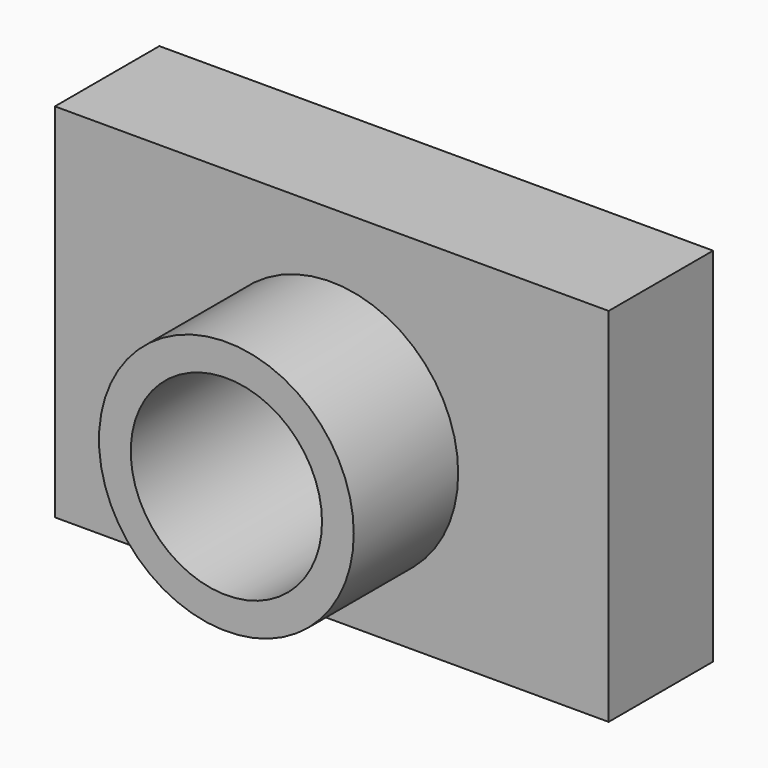
from build123d import *

# Parameters (mm, degrees)
F0_W     = 107.738086
F0_H     = 70.393864
F1_DEPTH = 25.4
F2_R     = 24.783806
F3_DEPTH = 25.4
F4_R     = 18.605806
F5_DEPTH = 76.2


with BuildPart() as f1:
    # F0 (on Front) → F1 (new body)
    with BuildSketch(Plane.XZ):
        with Locations((0.186719, 2.147293)):
            Rectangle(F0_W, F0_H)
    extrude(amount=F1_DEPTH)

    # F2 (on face) → F3 (join)
    with BuildSketch(Plane.XZ.offset(25.4)):
        Circle(F2_R)
        Circle(F2_R)
    extrude(amount=F3_DEPTH)

    # F4 (on face) → F5 (cut)
    with BuildSketch(Plane.XZ.offset(50.8)):
        Circle(F4_R)
    extrude(amount=-F5_DEPTH, mode=Mode.SUBTRACT)


solid = f1.part
